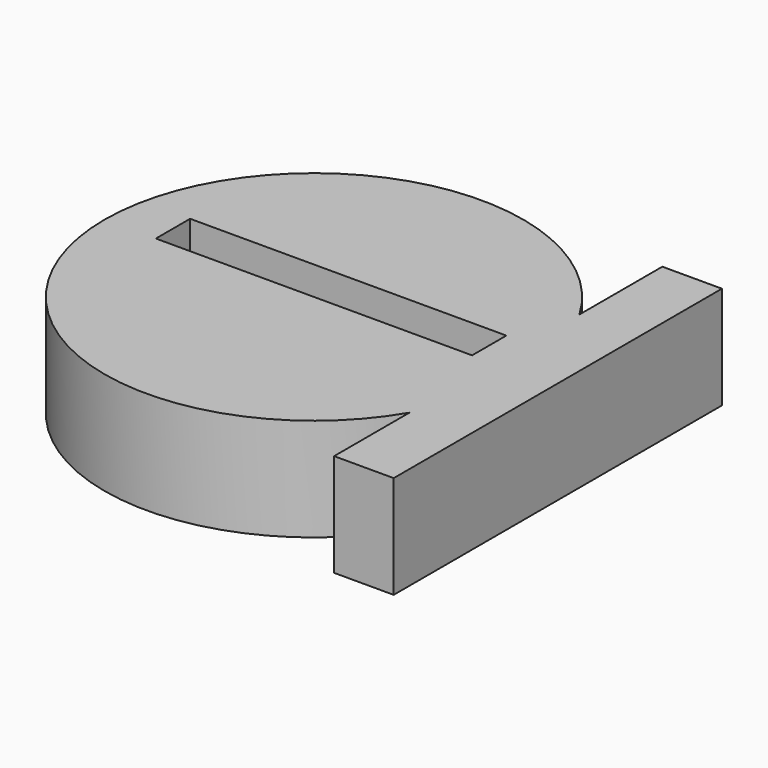
from build123d import *

# Parameters (mm, degrees)
F0_R     = 24.4478628748
F1_DEPTH = 5
F2_R     = 19.1271532248
F3_DEPTH = 5
F4_W     = 6.9555565715
F4_H     = 47.9025412351
F5_DEPTH = 5
F6_DEPTH = 7


with BuildPart() as f1:
    # F0 (on Top) → F1 (new body)
    with BuildSketch(Plane.XY):
        Circle(F0_R)
    extrude(amount=F1_DEPTH)

    # F2 (on Front) → F3 (cut)
    with BuildSketch(Plane.XZ):
        Circle(F2_R)
    extrude(amount=-F3_DEPTH, mode=Mode.SUBTRACT)

    # F4 (on Top) → F5 (join)
    with BuildSketch(Plane.XY):
        with Locations((24.5456583798, 0.5576470867)):
            Rectangle(F4_W, F4_H)
    extrude(amount=F5_DEPTH)

    # F6 (add): a face of the model
    f6_faces = [f1.faces().sort_by_distance(p)[0] for p in [
        (3.5064630649, -0.1400049466, 5),
    ]]
    extrude(f6_faces, amount=F6_DEPTH)


solid = f1.part
